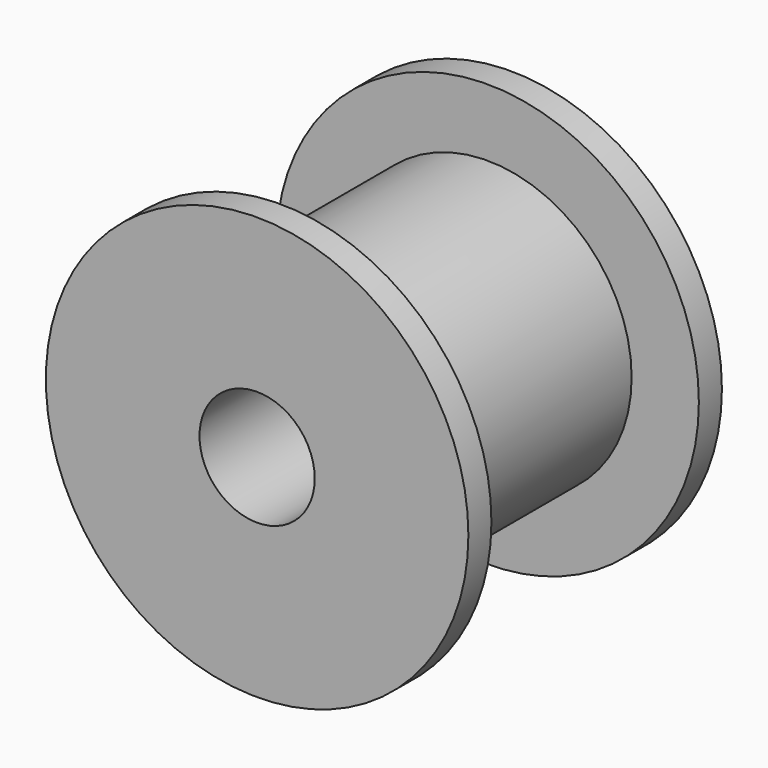
from build123d import *

# Parameters (mm, degrees)
F0_R        = 7.5
F0_R_2      = 3
F1_DEPTH    = 15
F0_R_3      = 11
F1_FACE_R   = 7.5
F1_FACE_R_2 = 3
F2_DEPTH    = 1.5
F3_START    = 13.5
F2_FACE_R   = 11
F2_FACE_R_2 = 7.5
F3_DEPTH    = 1.5


with BuildPart() as f1:
    # F0 (on Front) → F1 (new body)
    with BuildSketch(Plane.XZ):
        Circle(F0_R)
        Circle(F0_R_2, mode=Mode.SUBTRACT)
    extrude(amount=F1_DEPTH)

    # F0 (on Front) + F1_face (on face) → F2 (join)
    with BuildSketch(Plane.XZ):
        Circle(F0_R_3)
        Circle(F0_R, mode=Mode.SUBTRACT)
    with BuildSketch(Plane.XZ.offset(15)):
        Circle(F1_FACE_R)
        Circle(F1_FACE_R_2, mode=Mode.SUBTRACT)
    extrude(amount=F2_DEPTH)

    # F2_face (on face) → F3 (join)
    with BuildSketch(Plane.XZ.offset(1.5).offset(F3_START)):
        Circle(F2_FACE_R)
        Circle(F2_FACE_R_2, mode=Mode.SUBTRACT)
    extrude(amount=F3_DEPTH)


solid = f1.part
